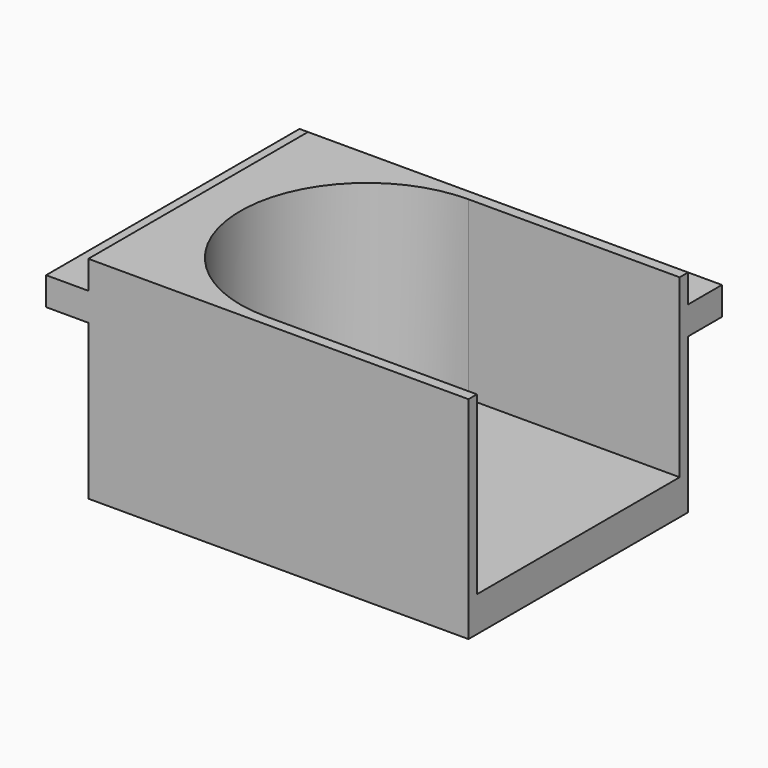
from build123d import *

# Parameters (mm, degrees)
SKETCH047_W             = 19.5
SKETCH047_H             = 27
PAD028_DEPTH            = 15
SKETCH048_W             = 22.5
SKETCH048_H             = 30
PAD027_DEPTH            = 2
POCKET019_DEPTH         = 12.5
SKETCH046_R             = 3.5
POCKET018_DEPTH         = 50
BODY015_ROLL_ANGLE      = 180
BODY015_PLACEMENT_ANGLE = -90


with BuildPart() as part:
    # Sketch047 → Pad028 (new body)
    with BuildSketch(Plane.XY):
        with Locations((9.75, 13.5)):
            Rectangle(SKETCH047_W, SKETCH047_H)
    extrude(amount=PAD028_DEPTH)

    # Sketch048 → Pad027 (join)
    with BuildSketch(Plane.XY.offset(2)):
        with Locations((8.25, 15)):
            Rectangle(SKETCH048_W, SKETCH048_H)
    extrude(amount=PAD027_DEPTH)

    # Sketch045 → Pocket019 (cut)
    with BuildSketch(Plane.XY):
        with BuildLine():
            ThreePointArc((18.75, 15), (9.749994, 24), (0.75, 14.999989))
            Line((0.75, 14.999989), (0.75, 0))
            Line((0.75, 0), (18.75, 0))
            Line((18.75, 0), (18.75, 15))
        make_face()
    extrude(amount=POCKET019_DEPTH, mode=Mode.SUBTRACT)

    # Sketch046 → Pocket018 (cut, symmetric)
    with BuildSketch(Plane.XY):
        with Locations((9.75, 15)):
            Circle(SKETCH046_R)
    extrude(amount=POCKET018_DEPTH, both=True, mode=Mode.SUBTRACT)


with BuildPart() as part_1:
    # Body015 roll: moved
    add(part.part.rotate(Axis((0, 0, 0), (1, 0, 0)), BODY015_ROLL_ANGLE))


with BuildPart() as part_2:
    # Body015 placement: moved
    add(part_1.part.moved(Location((65.5, 90.092583, -0.881905))).rotate(Axis((65.5, 90.092583, -0.881905), (0, 0, 1)), BODY015_PLACEMENT_ANGLE))


solid = part_2.part
